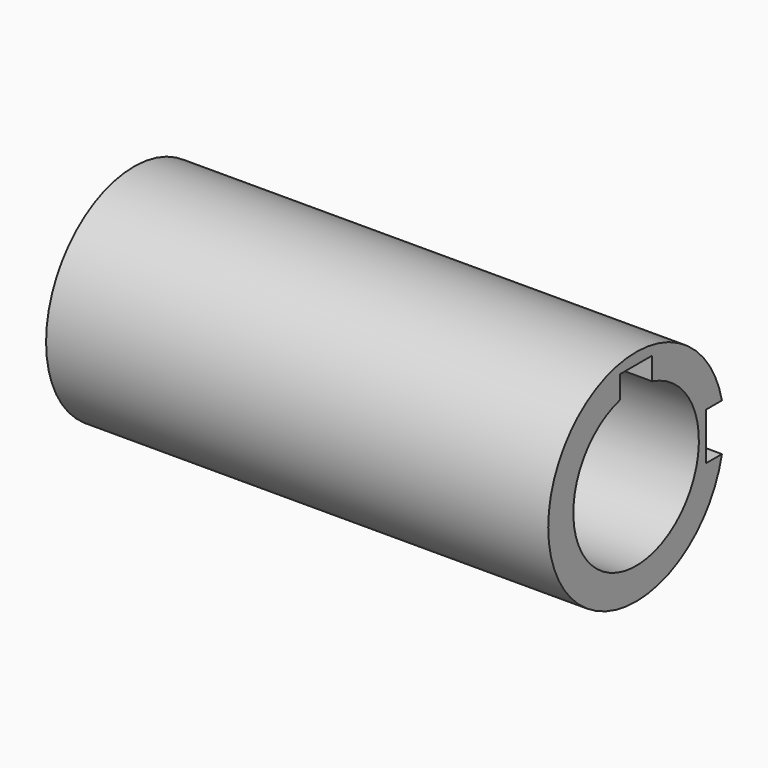
from build123d import *

# Parameters (mm, degrees)
F0_W     = 50.8
F0_H     = 3.175
F2_W     = 4.064
F2_H     = 2.54
F3_DEPTH = 50.801
F4_W     = 2.286
F4_H     = 4.7752
F5_DEPTH = 50.801


with BuildPart() as f1:
    # F0 (on Front) → F1 (revolve)
    with BuildSketch(Plane.XZ):
        with Locations((25.4, 9.525)):
            Rectangle(F0_W, F0_H)
    revolve(axis=Axis((25.403365, 0, 0), (1, 0, 0)))

    # F2 (on face) → F3 (cut, through all)
    with BuildSketch(Plane.YZ.offset(50.8)):
        with Locations((0, 8.6995)):
            Rectangle(F2_W, F2_H)
    extrude(amount=-F3_DEPTH, mode=Mode.SUBTRACT)

    # F4 (on face) → F5 (cut, through all)
    with BuildSketch(Plane.YZ.offset(50.8)):
        with Locations((9.9695, 0)):
            Rectangle(F4_W, F4_H)
    extrude(amount=-F5_DEPTH, mode=Mode.SUBTRACT)


solid = f1.part
